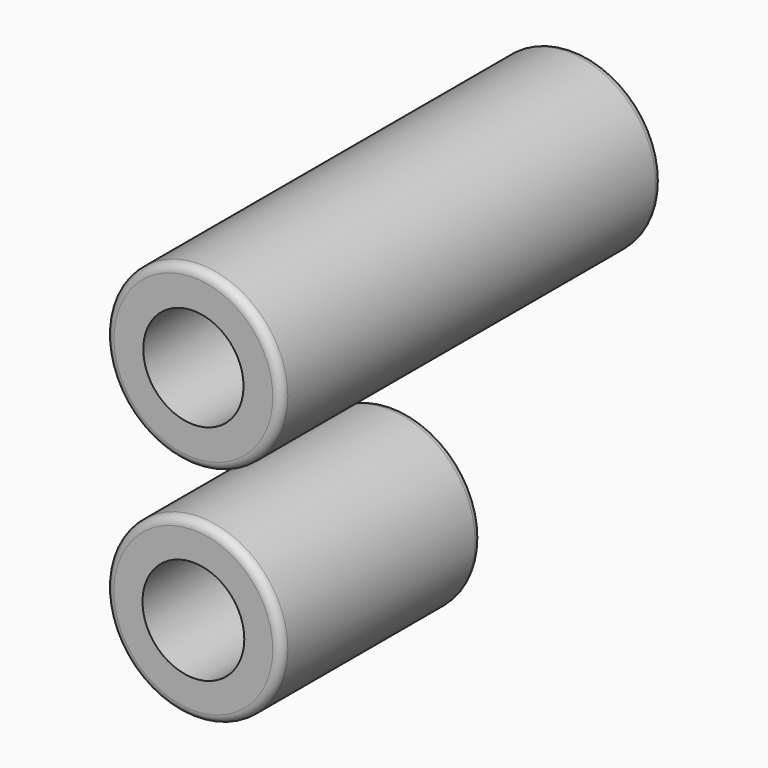
from build123d import *

# Parameters (mm, degrees)
F0_R     = 10.5
F0_R_2   = 6.0915
F1_DEPTH = 30
F2_R     = 10.5
F2_R_2   = 6
F3_DEPTH = 57
F4_R     = 1
F4_2_R   = 1


with BuildPart() as f1:
    # F0 (on Front) → F1 (new body)
    with BuildSketch(Plane.XZ):
        Circle(F0_R)
        Circle(F0_R_2, mode=Mode.SUBTRACT)
    extrude(amount=-F1_DEPTH)

    # F4#2
    f4_2_edges = [f1.edges().sort_by_distance(p)[0] for p in [
        (-10.5, 0, 0),
        (-10.5, 30, 0),
    ]]
    fillet(f4_2_edges, radius=F4_2_R)


with BuildPart() as f3:
    # F2 (on Front) → F3 (new body)
    with BuildSketch(Plane.XZ):
        with Locations((0, 26.615409)):
            Circle(F2_R)
        with Locations((0, 26.615409)):
            Circle(F2_R_2, mode=Mode.SUBTRACT)
    extrude(amount=-F3_DEPTH)

    # F4
    f4_edges = [f3.edges().sort_by_distance(p)[0] for p in [
        (-10.5, 0, 26.615409),
        (-10.5, 57, 26.615409),
    ]]
    fillet(f4_edges, radius=F4_R)


solid = Compound([f1.part, f3.part])
